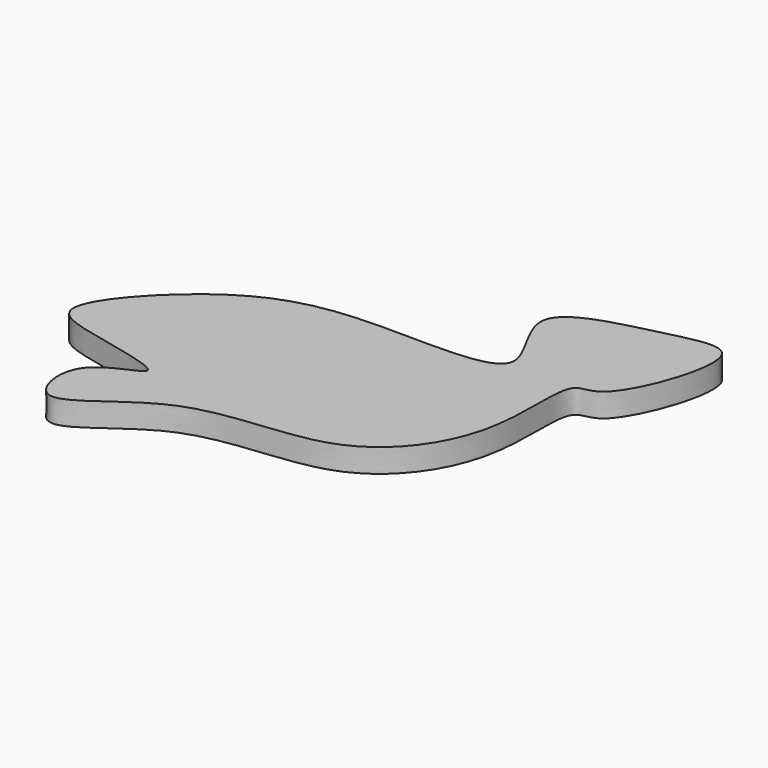
from build123d import *

# Parameters (mm, degrees)
F1_DEPTH = 5


with BuildPart() as f1:
    # F0 (on Top) → F1 (new body)
    with BuildSketch(Plane.XY):
        with BuildLine():
            add(Edge.make_bspline(
                [(25.7403291762, 74.2365866899), (27.6674457199, 69.5331649315), (20.5322994551, 49.1504043663), (11.185803554, 52.448424554), (15.1851320191, 28.193994292), (-1.9156647985, 4.7529955151), (-34.210138506, 9.5943335536), (-53.5860880501, -13.1546095287), (-57.8875714525, 7.2665614476), (-37.9671690819, 10.9190770213), (-60.0271695885, 15.2533875137), (-74.327804812, 19.1152973188), (-51.9142065726, 43.7463540301), (-29.4720270249, 48.8899734849), (9.5140238661, 45.2928878986), (-13.176046301, 68.9888743178), (12.5216086197, 74.2254010351), (24.2919200307, 77.7716500529), (25.7403291762, 74.2365866899)],
                knots=[0, 0, 0, 0, 0.0708080839, 0.104839653, 0.1698442997, 0.2446620602, 0.3269657814, 0.3939504421, 0.4426123042, 0.4909153323, 0.5476902022, 0.5958327698, 0.6689365001, 0.7473223138, 0.8223462183, 0.880895302, 0.9467810722, 1, 1, 1, 1], degree=3))
        make_face()
    extrude(amount=F1_DEPTH)


solid = f1.part
